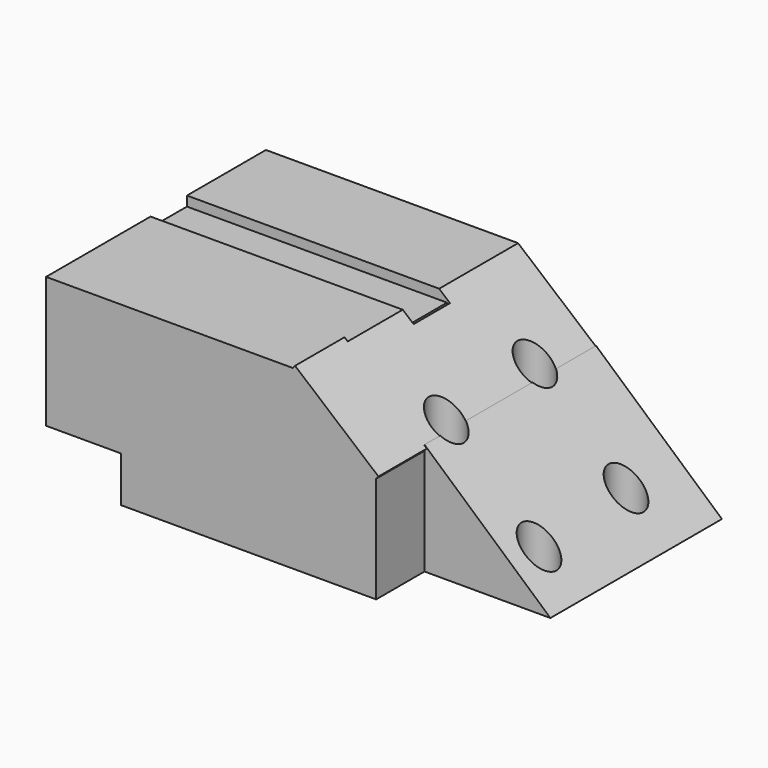
from build123d import *

# Parameters (mm, degrees)
F0_R      = 5.0203932543
F0_W      = 36.212477833
F0_H      = 17.3722021282
F1_DEPTH  = 50.8
F2_W      = 36.2125001848
F2_H      = 17.3722039908
F3_DEPTH  = 50.8
F5_DEPTH  = 50.8
F7_DEPTH  = 50.8
F8_DEPTH  = 68.58
F9_DEPTH  = 1.016
F11_DEPTH = 63.5
F12_W     = 21.5317420661
F12_H     = 13.0903217942
F13_DEPTH = 76.2
F14_DEPTH = 25.4
F15_W     = 72.532140549
F15_H     = 13.0903217942
F16_DEPTH = 12.7
F17_W     = 4.0916903161
F17_H     = 13.0903217942
F18_DEPTH = 12.7
F19_DEPTH = 6.35
F20_DEPTH = 5.08
F21_DEPTH = 2.2606
F22_DEPTH = 2.032
F23_DEPTH = 1.524
F24_DEPTH = 1.016


with BuildPart() as f1:
    # F0 (on Top) → F1 (new body)
    with BuildSketch(Plane.XY):
        Polygon((-59.0899549425, 41.4730757475), (-59.0899549425, -37.5582128763), (35.8454622328, -37.5582128763), (35.8454622328, -20.1860107481), (72.0579400659, -20.1860107481), (72.0579400659, 41.4730757475), align=None)
        with Locations((33.8835379278, -9.9094957113)):
            Circle(F0_R, mode=Mode.SUBTRACT)
        with Locations((60.5580285192, -9.9094957113)):
            Circle(F0_R, mode=Mode.SUBTRACT)
        with Locations((33.153988421, 22.8774771094)):
            Circle(F0_R, mode=Mode.SUBTRACT)
        with Locations((59.3529156527, 22.8774771094)):
            Circle(F0_R, mode=Mode.SUBTRACT)
        with Locations((53.9517011493, -28.8721118122)):
            Rectangle(F0_W, F0_H)
    extrude(amount=F1_DEPTH)

    # F2 (on face) → F3 (cut)
    with BuildSketch(Plane.XY.offset(50.8)):
        with Locations((53.9516899735, -28.8721108809)):
            Rectangle(F2_W, F2_H)
    extrude(amount=-F3_DEPTH, mode=Mode.SUBTRACT)

    # F4 (on face) → F5 (join)
    with BuildSketch(Plane.XZ.offset(37.5582128763)):
        Polygon((11.8669271469, 50.8), (35.8454398811, 30.5626192379), (35.8454398811, 50.8), align=None)
    extrude(amount=F5_DEPTH)

    # F6 (on face) → F7 (cut)
    with BuildSketch(Plane.XY):
        Polygon((-59.0899549425, 40.9865353048), (-60.1052679121, 25.7568676025), (-59.0899549425, 25.7568676025), align=None)
        Polygon((-59.0484701097, 41.6088066995), (-59.0575188558, 41.4730757475), (-25.7593989372, 41.4730757475), (-25.7593989372, 41.6088066995), align=None)
        Polygon((-59.0899549425, 40.9865353048), (-59.0899549425, 25.7568676025), (-25.7593989372, 25.7568676025), (-25.7593989372, 41.4730757475), (-59.0575188558, 41.4730757475), align=None)
    extrude(amount=-F7_DEPTH, mode=Mode.SUBTRACT)

    # F8 (cut): a face of the model
    f8_faces = [f1.faces().sort_by_distance(p)[0] for p in [
        (27.852602303, -88.3582128763, 44.0542064126),
    ]]
    extrude(f8_faces, amount=-F8_DEPTH, mode=Mode.SUBTRACT)

    # F9 (add): a face of the model
    f9_faces = [f1.faces().sort_by_distance(p)[0] for p in [
        (23.856183514, -28.6682128763, 40.681309619),
    ]]
    extrude(f9_faces, amount=F9_DEPTH)

    # F8_face1 (on face) + F10 (on face) → F11 (cut)
    with BuildSketch(Plane(origin=(28.3776884562, -19.7782128763, 44.4973685275), x_dir=(1, 0, 0), z_dir=(0, -1, 0))):
        Polygon((7.4677514249, -12.6052629449), (7.4677514249, 6.3026314725), (-14.9355028497, 6.3026314725), align=None)
    with BuildSketch(Plane.XZ.offset(20.1860088855)):
        Polygon((35.8454398811, 32.1115117159), (72.0579400659, 0), (72.0579400659, 50.8), (35.8454398811, 50.8), align=None)
    extrude(amount=-F11_DEPTH, mode=Mode.SUBTRACT)

    # F12 (on face) → F13 (cut)
    with BuildSketch(Plane.XZ.offset(37.5582128763)):
        with Locations((-48.3240839094, 6.5451608971)):
            Rectangle(F12_W, F12_H)
    extrude(amount=-F13_DEPTH, mode=Mode.SUBTRACT)

    # F14 (cut): a face of the model
    f14_faces = [f1.faces().sort_by_distance(p)[0] for p in [
        (-48.3240839094, 38.6417871237, 6.5451608971),
    ]]
    extrude(f14_faces, amount=-F14_DEPTH, mode=Mode.SUBTRACT)

    # F15 (on face) → F16 (cut)
    with BuildSketch(Plane.XY.offset(50.8)):
        with Locations((-22.823884668, 6.5451608971)):
            Rectangle(F15_W, F15_H)
    extrude(amount=-F16_DEPTH, mode=Mode.SUBTRACT)

    # F17 (on face) → F18 (cut)
    with BuildSketch(Plane(origin=(30.6307366038, 0, 36.2932098944), x_dir=(0.7642049157, 0, -0.6449735241), z_dir=(0.6449735241, 0, 0.7642049157))):
        with Locations((-20.446225546, 6.5451608971)):
            Rectangle(F17_W, F17_H)
    extrude(amount=-F18_DEPTH, mode=Mode.SUBTRACT)

    # F19 (add): a face of the model
    f19_faces = [f1.faces().sort_by_distance(p)[0] for p in [
        (-22.823884668, 6.5451608971, 38.1),
    ]]
    extrude(f19_faces, amount=F19_DEPTH)

    # F20 (add): a face of the model
    f20_faces = [f1.faces().sort_by_distance(p)[0] for p in [
        (-22.823884668, 6.5451608971, 44.45),
    ]]
    extrude(f20_faces, amount=F20_DEPTH)

    # F21 (add): a face of the model
    f21_faces = [f1.faces().sort_by_distance(p)[0] for p in [
        (13.4421856065, 6.5451608971, 46.9930168384),
    ]]
    extrude(f21_faces, amount=F21_DEPTH)

    # F22 (cut): a face of the model
    f22_faces = [f1.faces().sort_by_distance(p)[0] for p in [
        (-21.693584668, 6.5451608971, 49.53),
    ]]
    extrude(f22_faces, amount=-F22_DEPTH, mode=Mode.SUBTRACT)

    # F23 (add): a face of the model
    f23_faces = [f1.faces().sort_by_distance(p)[0] for p in [
        (-21.693584668, 6.5451608971, 47.498),
    ]]
    extrude(f23_faces, amount=F23_DEPTH)

    # F24 (cut): a face of the model
    f24_faces = [f1.faces().sort_by_distance(p)[0] for p in [
        (-21.693584668, 6.5451608971, 49.022),
    ]]
    extrude(f24_faces, amount=-F24_DEPTH, mode=Mode.SUBTRACT)


solid = f1.part
